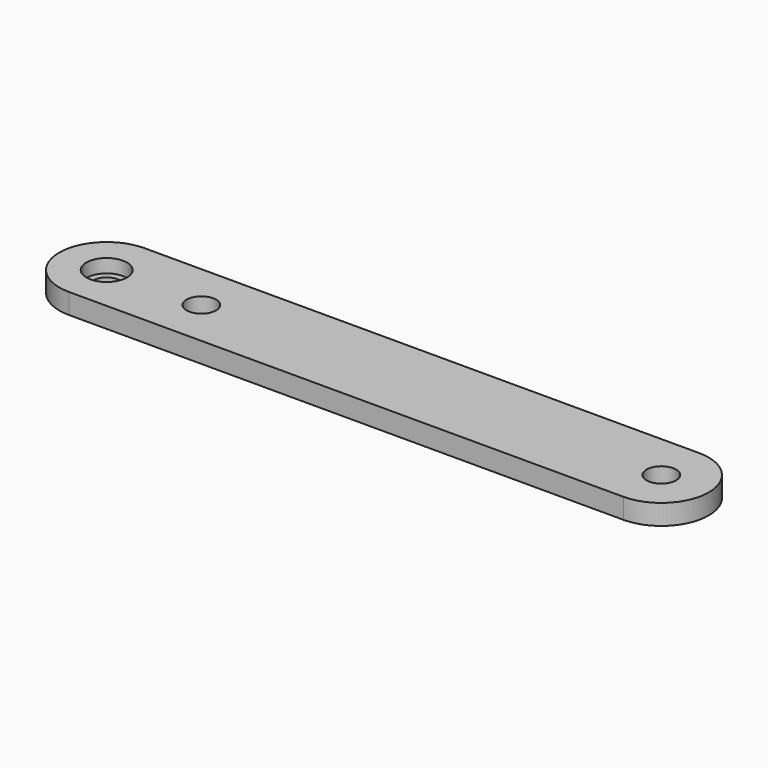
from build123d import *

# Parameters (mm, degrees)
F0_R     = 1.5875
F0_R_2   = 1.7272
F1_DEPTH = 2.38125
F2_R     = 2.38125
F3_DEPTH = 1.5875


with BuildPart() as f1:
    # F0 (on Top) → F1 (new body)
    with BuildSketch(Plane.XY):
        with BuildLine():
            Line((65.0875, 0), (0, 0))
            ThreePointArc((0, 0), (-5.55625, -5.55625), (0, -11.1125))
            Line((0, -11.1125), (65.0875, -11.1125))
            ThreePointArc((65.0875, -11.1125), (70.64375, -5.55625), (65.0875, 0))
        make_face()
        with Locations((0, -5.55625)):
            Circle(F0_R, mode=Mode.SUBTRACT)
        with Locations((11.1125, -5.55625)):
            Circle(F0_R_2, mode=Mode.SUBTRACT)
        with Locations((65.0875, -5.55625)):
            Circle(F0_R_2, mode=Mode.SUBTRACT)
    extrude(amount=F1_DEPTH)

    # F2 (on face) → F3 (cut)
    with BuildSketch(Plane.XY.offset(2.38125)):
        with Locations((0, -5.55625)):
            Circle(F2_R)
    extrude(amount=-F3_DEPTH, mode=Mode.SUBTRACT)


solid = f1.part
